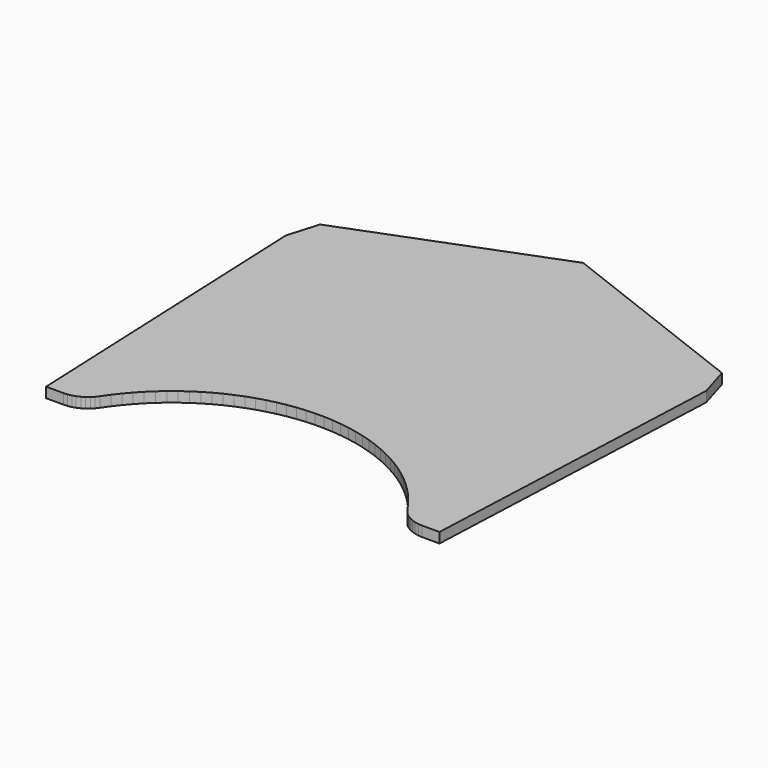
from build123d import *

# Parameters (mm, degrees)
PAD001_DEPTH = 5


with BuildPart() as part:
    # Sketch005 → Pad001 (new body)
    with BuildSketch(Plane.XY):
        with BuildLine():
            add(Edge.make_bspline(
                [(121.025466, -610.427928), (129.633244, -610.427928)],
                knots=[0, 0, 24.4, 24.4], degree=1))
            add(Edge.make_bspline(
                [(129.633244, -610.427928), (131.467688, -610.322095)],
                knots=[0, 0, 5.208647, 5.208647], degree=1))
            add(Edge.make_bspline(
                [(131.467688, -610.322095), (133.302133, -609.969317)],
                knots=[0, 0, 5.295281, 5.295281], degree=1))
            add(Edge.make_bspline(
                [(133.302133, -609.969317), (135.030744, -609.404873)],
                knots=[0, 0, 5.15461, 5.15461], degree=1))
            add(Edge.make_bspline(
                [(135.030744, -609.404873), (136.724077, -608.628762)],
                knots=[0, 0, 5.280152, 5.280152], degree=1))
            add(Edge.make_bspline(
                [(136.724077, -608.628762), (138.276299, -607.676262)],
                knots=[0, 0, 5.162364, 5.162364], degree=1))
            add(Edge.make_bspline(
                [(138.276299, -607.676262), (139.722688, -606.512095)],
                knots=[0, 0, 5.263079, 5.263079], degree=1))
            add(Edge.make_bspline(
                [(139.722688, -606.512095), (140.992688, -605.206817)],
                knots=[0, 0, 5.162364, 5.162364], degree=1))
            add(Edge.make_bspline(
                [(140.992688, -605.206817), (142.121577, -603.725151)],
                knots=[0, 0, 5.280152, 5.280152], degree=1))
            add(Edge.make_bspline(
                [(142.121577, -603.725151), (144.626299, -600.162095)],
                knots=[0, 0, 12.34585, 12.34585], degree=1))
            add(Edge.make_bspline(
                [(144.626299, -600.162095), (147.30741, -596.740151)],
                knots=[0, 0, 12.322743, 12.322743], degree=1))
            add(Edge.make_bspline(
                [(147.30741, -596.740151), (150.129632, -593.42404)],
                knots=[0, 0, 12.343419, 12.343419], degree=1))
            add(Edge.make_bspline(
                [(150.129632, -593.42404), (153.092966, -590.24904)],
                knots=[0, 0, 12.310971, 12.310971], degree=1))
            add(Edge.make_bspline(
                [(153.092966, -590.24904), (156.232688, -587.215151)],
                knots=[0, 0, 12.376187, 12.376187], degree=1))
            add(Edge.make_bspline(
                [(156.232688, -587.215151), (159.513521, -584.357651)],
                knots=[0, 0, 12.332883, 12.332883], degree=1))
            add(Edge.make_bspline(
                [(159.513521, -584.357651), (162.935465, -581.641262)],
                knots=[0, 0, 12.384668, 12.384668], degree=1))
            add(Edge.make_bspline(
                [(162.935465, -581.641262), (166.463243, -579.101262)],
                knots=[0, 0, 12.322337, 12.322337], degree=1))
            add(Edge.make_bspline(
                [(166.463243, -579.101262), (170.096854, -576.737651)],
                knots=[0, 0, 12.287392, 12.287392], degree=1))
            add(Edge.make_bspline(
                [(170.096854, -576.737651), (173.871576, -574.550429)],
                knots=[0, 0, 12.366487, 12.366487], degree=1))
            add(Edge.make_bspline(
                [(173.871576, -574.550429), (177.716854, -572.539596)],
                knots=[0, 0, 12.300406, 12.300406], degree=1))
            add(Edge.make_bspline(
                [(177.716854, -572.539596), (181.703243, -570.740429)],
                knots=[0, 0, 12.39758, 12.39758], degree=1))
            add(Edge.make_bspline(
                [(181.703243, -570.740429), (185.724909, -569.082374)],
                knots=[0, 0, 12.330856, 12.330856], degree=1))
            add(Edge.make_bspline(
                [(185.724909, -569.082374), (189.817131, -567.671263)],
                knots=[0, 0, 12.270289, 12.270289], degree=1))
            add(Edge.make_bspline(
                [(189.817131, -567.671263), (194.015187, -566.436541)],
                knots=[0, 0, 12.404032, 12.404032], degree=1))
            add(Edge.make_bspline(
                [(194.015187, -566.436541), (198.24852, -565.378207)],
                knots=[0, 0, 12.369317, 12.369317], degree=1))
            add(Edge.make_bspline(
                [(198.24852, -565.378207), (202.517131, -564.566818)],
                knots=[0, 0, 12.316655, 12.316655], degree=1))
            add(Edge.make_bspline(
                [(202.517131, -564.566818), (206.82102, -563.931818)],
                knots=[0, 0, 12.332072, 12.332072], degree=1))
            add(Edge.make_bspline(
                [(206.82102, -563.931818), (211.160187, -563.508485)],
                knots=[0, 0, 12.358398, 12.358398], degree=1))
            add(Edge.make_bspline(
                [(211.160187, -563.508485), (215.499353, -563.296818)],
                knots=[0, 0, 12.314625, 12.314625], degree=1))
            add(Edge.make_bspline(
                [(215.499353, -563.296818), (219.83852, -563.296818)],
                knots=[0, 0, 12.3, 12.3], degree=1))
            add(Edge.make_bspline(
                [(219.83852, -563.296818), (224.212964, -563.508485)],
                knots=[0, 0, 12.414508, 12.414508], degree=1))
            add(Edge.make_bspline(
                [(224.212964, -563.508485), (228.516853, -563.931818)],
                knots=[0, 0, 12.258874, 12.258874], degree=1))
            add(Edge.make_bspline(
                [(228.516853, -563.931818), (232.856019, -564.566818)],
                knots=[0, 0, 12.43101, 12.43101], degree=1))
            add(Edge.make_bspline(
                [(232.856019, -564.566818), (237.12463, -565.378207)],
                knots=[0, 0, 12.316655, 12.316655], degree=1))
            add(Edge.make_bspline(
                [(237.12463, -565.378207), (241.357964, -566.436541)],
                knots=[0, 0, 12.369317, 12.369317], degree=1))
            add(Edge.make_bspline(
                [(241.357964, -566.436541), (245.520741, -567.671263)],
                knots=[0, 0, 12.308127, 12.308127], degree=1))
            add(Edge.make_bspline(
                [(245.520741, -567.671263), (249.612963, -569.082374)],
                knots=[0, 0, 12.270289, 12.270289], degree=1))
            add(Edge.make_bspline(
                [(249.612963, -569.082374), (253.669908, -570.740429)],
                knots=[0, 0, 12.423365, 12.423365], degree=1))
            add(Edge.make_bspline(
                [(253.669908, -570.740429), (257.621019, -572.539596)],
                knots=[0, 0, 12.306502, 12.306502], degree=1))
            add(Edge.make_bspline(
                [(257.621019, -572.539596), (261.466297, -574.550429)],
                knots=[0, 0, 12.300406, 12.300406], degree=1))
            add(Edge.make_bspline(
                [(261.466297, -574.550429), (265.241019, -576.737651)],
                knots=[0, 0, 12.366487, 12.366487], degree=1))
            add(Edge.make_bspline(
                [(265.241019, -576.737651), (268.909907, -579.101262)],
                knots=[0, 0, 12.371338, 12.371338], degree=1))
            add(Edge.make_bspline(
                [(268.909907, -579.101262), (272.437685, -581.641262)],
                knots=[0, 0, 12.322337, 12.322337], degree=1))
            add(Edge.make_bspline(
                [(272.437685, -581.641262), (275.824352, -584.357651)],
                knots=[0, 0, 12.306502, 12.306502], degree=1))
            add(Edge.make_bspline(
                [(275.824352, -584.357651), (279.105185, -587.215151)],
                knots=[0, 0, 12.332883, 12.332883], degree=1))
            add(Edge.make_bspline(
                [(279.105185, -587.215151), (282.244907, -590.24904)],
                knots=[0, 0, 12.376187, 12.376187], degree=1))
            add(Edge.make_bspline(
                [(282.244907, -590.24904), (285.243518, -593.42404)],
                knots=[0, 0, 12.379418, 12.379418], degree=1))
            add(Edge.make_bspline(
                [(285.243518, -593.42404), (288.06574, -596.740151)],
                knots=[0, 0, 12.343419, 12.343419], degree=1))
            add(Edge.make_bspline(
                [(288.06574, -596.740151), (290.746851, -600.162095)],
                knots=[0, 0, 12.322743, 12.322743], degree=1))
            add(Edge.make_bspline(
                [(290.746851, -600.162095), (293.216296, -603.725151)],
                knots=[0, 0, 12.288613, 12.288613], degree=1))
            add(Edge.make_bspline(
                [(293.216296, -603.725151), (294.345185, -605.206817)],
                knots=[0, 0, 5.280152, 5.280152], degree=1))
            add(Edge.make_bspline(
                [(294.345185, -605.206817), (295.615185, -606.512095)],
                knots=[0, 0, 5.162364, 5.162364], degree=1))
            add(Edge.make_bspline(
                [(295.615185, -606.512095), (297.061574, -607.676262)],
                knots=[0, 0, 5.263079, 5.263079], degree=1))
            add(Edge.make_bspline(
                [(297.061574, -607.676262), (298.649074, -608.628762)],
                knots=[0, 0, 5.247857, 5.247857], degree=1))
            add(Edge.make_bspline(
                [(298.649074, -608.628762), (300.307129, -609.404873)],
                knots=[0, 0, 5.189412, 5.189412], degree=1))
            add(Edge.make_bspline(
                [(300.307129, -609.404873), (302.071018, -609.969317)],
                knots=[0, 0, 5.249762, 5.249762], degree=1))
            add(Edge.make_bspline(
                [(302.071018, -609.969317), (303.870184, -610.322095)],
                knots=[0, 0, 5.197115, 5.197115], degree=1))
            add(Edge.make_bspline(
                [(303.870184, -610.322095), (305.704629, -610.427928)],
                knots=[0, 0, 5.208647, 5.208647], degree=1))
            add(Edge.make_bspline(
                [(314.347684, -610.427928), (305.704629, -610.427928)],
                knots=[0, 0, 24.5, 24.5], degree=1))
            add(Edge.make_bspline(
                [(314.347684, -610.427928), (321.015184, -454.852932)],
                knots=[0, 0, 441.404814, 441.404814], degree=1))
            add(Edge.make_bspline(
                [(321.015184, -454.852932), (316.429073, -439.507099)],
                knots=[0, 0, 45.400991, 45.400991], degree=1))
            add(Edge.make_bspline(
                [(316.429073, -439.507099), (217.686575, -401.336544)],
                knots=[0, 0, 300.085405, 300.085405], degree=1))
            add(Edge.make_bspline(
                [(118.9088, -439.507099), (217.686575, -401.336544)],
                knots=[0, 0, 300.17868, 300.17868], degree=1))
            add(Edge.make_bspline(
                [(114.357966, -454.852932), (118.9088, -439.507099)],
                knots=[0, 0, 45.372459, 45.372459], degree=1))
            add(Edge.make_bspline(
                [(121.025466, -610.427928), (114.357966, -454.852932)],
                knots=[0, 0, 441.404814, 441.404814], degree=1))
        make_face()
    extrude(amount=PAD001_DEPTH)


solid = part.part
